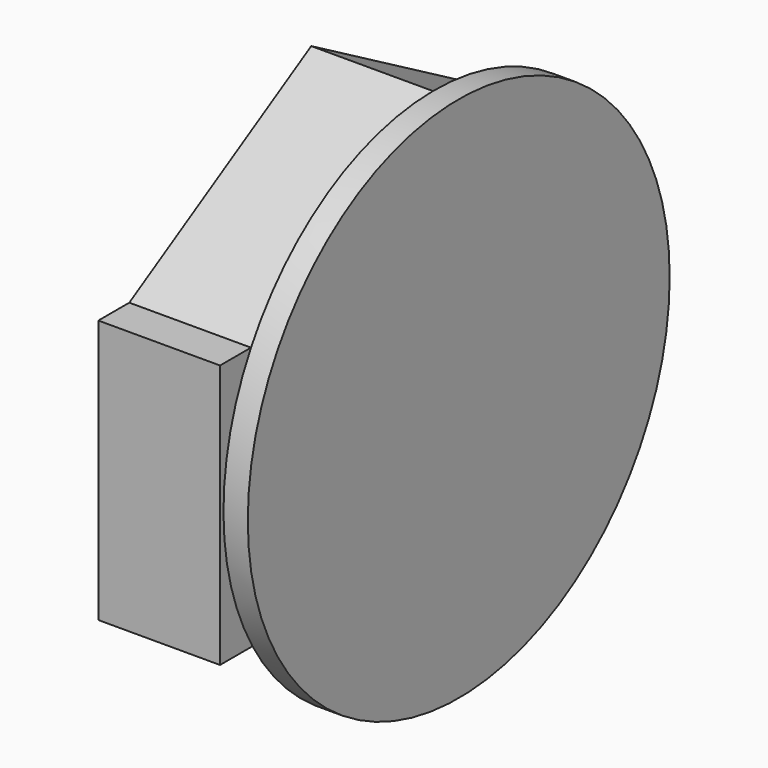
from build123d import *

# Parameters (mm, degrees)
F0_R     = 32.5
F1_DEPTH = 3
F3_DEPTH = 15


with BuildPart() as f1:
    # F0 (on Right) → F1 (new body)
    with BuildSketch(Plane.YZ):
        Circle(F0_R)
    extrude(amount=F1_DEPTH)

    # F2 (on face) → F3 (join)
    with BuildSketch(Plane(origin=(0, 0, 0), x_dir=(0, -1, 0), z_dir=(-1, 0, 0))):
        Polygon((33.030191, 16.051206), (28.259667, 16.051206), (0.229238, 32.499192), (-28.030428, 16.448256), (-28.259898, -16.050799), (-0.229705, -32.499188), (28.030191, -16.448659), (33.030191, -16.448659), align=None)
    extrude(amount=F3_DEPTH)


solid = f1.part
